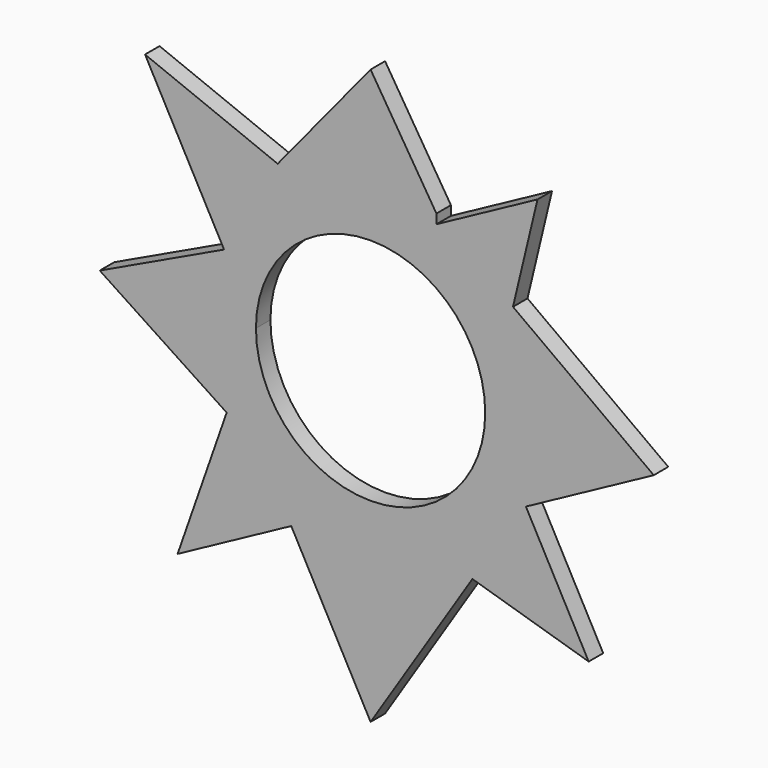
from build123d import *

# Parameters (mm, degrees)
F1_DEPTH = 3.048


with BuildPart() as f1:
    # F0 (on Front) → F1 (new body)
    with BuildSketch(Plane.XZ):
        with BuildLine():
            ThreePointArc((0, 19.277473), (13.631232, 13.631232), (19.277473, 0))
            ThreePointArc((19.277473, 0), (0, -19.277473), (-19.277473, 0))
            Line((-19.277473, 0), (-24.200103, -14.086255))
            Line((-24.200103, -14.086255), (-32.447593, -37.686701))
            Line((-32.447593, -37.686701), (-13.343572, -27.349228))
            Line((-13.343572, -27.349228), (0, -20.12882))
            Line((0, -20.12882), (17.126714, -25.274702))
            Line((17.126714, -25.274702), (36.677146, -31.148814))
            Line((36.677146, -31.148814), (26.117608, -11.634409))
            Line((26.117608, -11.634409), (19.822054, 0))
            Line((19.822054, 0), (23.947323, 17.233988))
            Line((23.947323, 17.233988), (28.072593, 34.467977))
            Line((28.072593, 34.467977), (11.074049, 25.269808))
            Line((11.074049, 25.269808), (0, 19.277473))
        make_face()
        with BuildLine():
            ThreePointArc((-19.277473, 0), (-13.631232, 13.631232), (0, 19.277473))
            Line((0, 19.277473), (-15.617592, 25.532357))
            Line((-15.617592, 25.532357), (-37.928615, 34.467977))
            Line((-37.928615, 34.467977), (-24.637008, 9.904611))
            Line((-24.637008, 9.904611), (-19.277473, 0))
        make_face()
        Polygon((-15.617592, 25.532357), (0, 19.277473), (11.074049, 25.269808), (11.074049, 26.854567), (0, 44.573046), align=None)
        Polygon((-24.200103, -14.086255), (-19.277473, 0), (-24.637008, 9.904611), (-45.542024, 0), align=None)
        Polygon((47.618411, 0), (23.947323, 17.233988), (19.822054, 0), (26.117608, -11.634409), align=None)
        Polygon((0, -20.12882), (-13.343572, -27.349228), (0, -52.008626), (17.126714, -25.274702), align=None)
    extrude(amount=F1_DEPTH)


solid = f1.part
